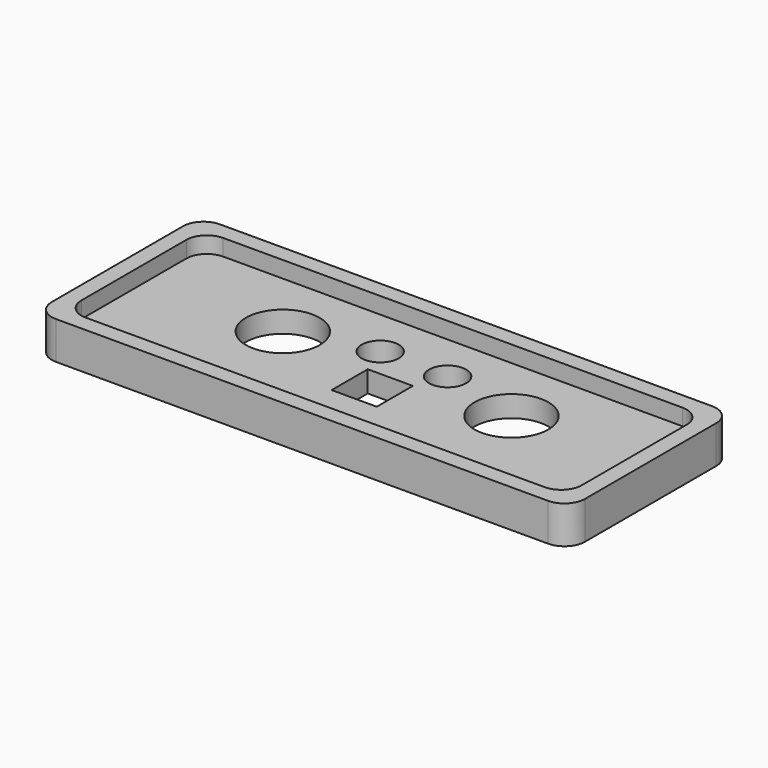
from build123d import *

# Parameters (mm, degrees)
F1_DEPTH = 3.302
F2_DEPTH = 2.54
F3_R     = 5.715
F3_W     = 6.985
F3_H     = 6.985
F3_R_2   = 2.8702
F4_DEPTH = 3.303


with BuildPart() as f1:
    # F0 (on Top) → F1 (new body)
    with BuildSketch(Plane.XY):
        with BuildLine():
            Line((86.51892, -3.862933), (10.31892, -3.862933))
            ThreePointArc((10.31892, -3.862933), (8.073856, -4.792869), (7.14392, -7.037933))
            Line((7.14392, -7.037933), (7.14392, -32.437933))
            ThreePointArc((7.14392, -32.437933), (8.073856, -34.682997), (10.31892, -35.612933))
            Line((10.31892, -35.612933), (86.51892, -35.612933))
            ThreePointArc((86.51892, -35.612933), (88.763984, -34.682997), (89.69392, -32.437933))
            Line((89.69392, -32.437933), (89.69392, -7.037933))
            ThreePointArc((89.69392, -7.037933), (88.763984, -4.792869), (86.51892, -3.862933))
        make_face()
        with BuildLine():
            Line((83.97892, -33.072933), (12.85892, -33.072933))
            ThreePointArc((12.85892, -33.072933), (10.613856, -32.142997), (9.68392, -29.897933))
            Line((9.68392, -29.897933), (9.68392, -9.577933))
            ThreePointArc((9.68392, -9.577933), (10.613856, -7.332869), (12.85892, -6.402933))
            Line((12.85892, -6.402933), (83.97892, -6.402933))
            ThreePointArc((83.97892, -6.402933), (86.223984, -7.332869), (87.15392, -9.577933))
            Line((87.15392, -9.577933), (87.15392, -29.897933))
            ThreePointArc((87.15392, -29.897933), (86.223984, -32.142997), (83.97892, -33.072933))
        make_face(mode=Mode.SUBTRACT)
        with BuildLine():
            ThreePointArc((9.68392, -29.897933), (10.613856, -32.142997), (12.85892, -33.072933))
            Line((12.85892, -33.072933), (83.97892, -33.072933))
            ThreePointArc((83.97892, -33.072933), (86.223984, -32.142997), (87.15392, -29.897933))
            Line((87.15392, -29.897933), (87.15392, -9.577933))
            ThreePointArc((87.15392, -9.577933), (86.223984, -7.332869), (83.97892, -6.402933))
            Line((83.97892, -6.402933), (12.85892, -6.402933))
            ThreePointArc((12.85892, -6.402933), (10.613856, -7.332869), (9.68392, -9.577933))
            Line((9.68392, -9.577933), (9.68392, -29.897933))
        make_face()
    extrude(amount=-F1_DEPTH)

    # F0 (on Top) → F2 (join)
    with BuildSketch(Plane.XY):
        with BuildLine():
            Line((86.51892, -3.862933), (10.31892, -3.862933))
            ThreePointArc((10.31892, -3.862933), (8.073856, -4.792869), (7.14392, -7.037933))
            Line((7.14392, -7.037933), (7.14392, -32.437933))
            ThreePointArc((7.14392, -32.437933), (8.073856, -34.682997), (10.31892, -35.612933))
            Line((10.31892, -35.612933), (86.51892, -35.612933))
            ThreePointArc((86.51892, -35.612933), (88.763984, -34.682997), (89.69392, -32.437933))
            Line((89.69392, -32.437933), (89.69392, -7.037933))
            ThreePointArc((89.69392, -7.037933), (88.763984, -4.792869), (86.51892, -3.862933))
        make_face()
        with BuildLine():
            Line((83.97892, -33.072933), (12.85892, -33.072933))
            ThreePointArc((12.85892, -33.072933), (10.613856, -32.142997), (9.68392, -29.897933))
            Line((9.68392, -29.897933), (9.68392, -9.577933))
            ThreePointArc((9.68392, -9.577933), (10.613856, -7.332869), (12.85892, -6.402933))
            Line((12.85892, -6.402933), (83.97892, -6.402933))
            ThreePointArc((83.97892, -6.402933), (86.223984, -7.332869), (87.15392, -9.577933))
            Line((87.15392, -9.577933), (87.15392, -29.897933))
            ThreePointArc((87.15392, -29.897933), (86.223984, -32.142997), (83.97892, -33.072933))
        make_face(mode=Mode.SUBTRACT)
    extrude(amount=F2_DEPTH)

    # F3 (on Top) → F4 (cut, through all)
    with BuildSketch(Plane.XY):
        with Locations((30.71512, -17.197933)):
            Circle(F3_R)
        with BuildLine():
            ThreePointArc((71.83772, -17.197933), (66.12272, -11.482933), (60.40772, -17.197933))
            ThreePointArc((60.40772, -17.197933), (66.12272, -22.912933), (71.83772, -17.197933))
        make_face()
        with Locations((48.41892, -22.011233)):
            Rectangle(F3_W, F3_H)
        with Locations((43.19922, -13.949079)):
            Circle(F3_R_2)
        with BuildLine():
            ThreePointArc((56.50882, -13.949079), (53.63862, -11.078879), (50.76842, -13.949079))
            ThreePointArc((50.76842, -13.949079), (53.63862, -16.819279), (56.50882, -13.949079))
        make_face()
    extrude(amount=-F4_DEPTH, mode=Mode.SUBTRACT)


solid = f1.part
